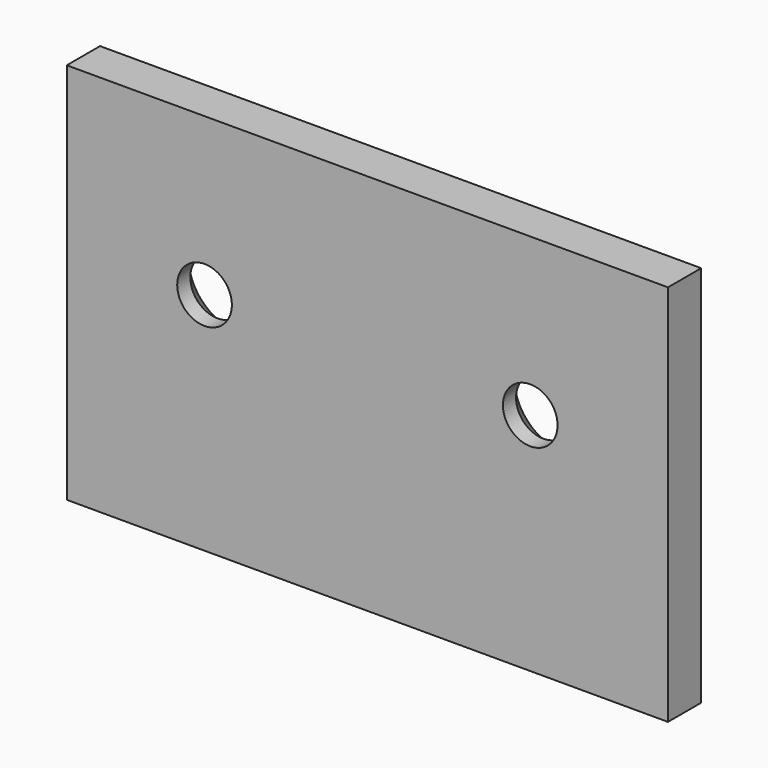
from build123d import *

# Parameters (mm, degrees)
F0_W           = 69.85
F0_H           = 44.45
F1_DEPTH       = 4.826
F2_D           = 6.35
F2_CSINK_D     = 11.43
F2_CSINK_ANGLE = 82


with BuildPart() as f1:
    # F0 (on Front) → F1 (new body)
    with BuildSketch(Plane.XZ):
        with Locations((-0.127, 0)):
            Rectangle(F0_W, F0_H)
    extrude(amount=F1_DEPTH)

    # F2 (through all)
    with Locations(Plane(origin=(0, 0, 0), x_dir=(1, 0, 0), z_dir=(0, 1, 0))):
        with Locations((-19.05, -3.937), (18.796, -3.937)):
            CounterSinkHole(F2_D / 2, F2_CSINK_D / 2, counter_sink_angle=F2_CSINK_ANGLE)


solid = f1.part
